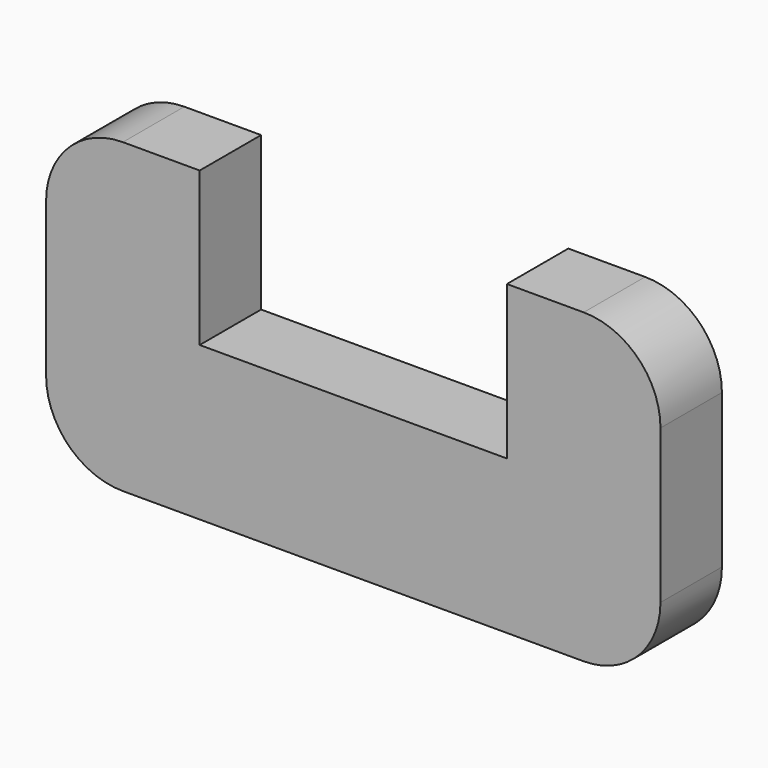
from build123d import *

# Parameters (mm, degrees)
F1_DEPTH = 6.35


with BuildPart() as f1:
    # F0 (on Front) → F1 (new body, symmetric)
    with BuildSketch(Plane.XZ):
        with BuildLine():
            Line((-38.1, -25.4), (38.1, -25.4))
            ThreePointArc((38.1, -25.4), (47.0802561211, -21.6802561211), (50.8, -12.7))
            Line((50.8, -12.7), (50.8, 12.7))
            ThreePointArc((50.8, 12.7), (47.0802561211, 21.6802561211), (38.1, 25.4))
            Line((38.1, 25.4), (25.4, 25.4))
            Line((25.4, 25.4), (25.4, 0))
            Line((25.4, 0), (-25.4, 0))
            Line((-25.4, 0), (-25.4, 25.4))
            Line((-25.4, 25.4), (-38.1, 25.4))
            ThreePointArc((-38.1, 25.4), (-47.0802561211, 21.6802561211), (-50.8, 12.7))
            Line((-50.8, 12.7), (-50.8, -12.7))
            ThreePointArc((-50.8, -12.7), (-47.0802561211, -21.6802561211), (-38.1, -25.4))
        make_face()
    extrude(amount=F1_DEPTH, both=True)


solid = f1.part
